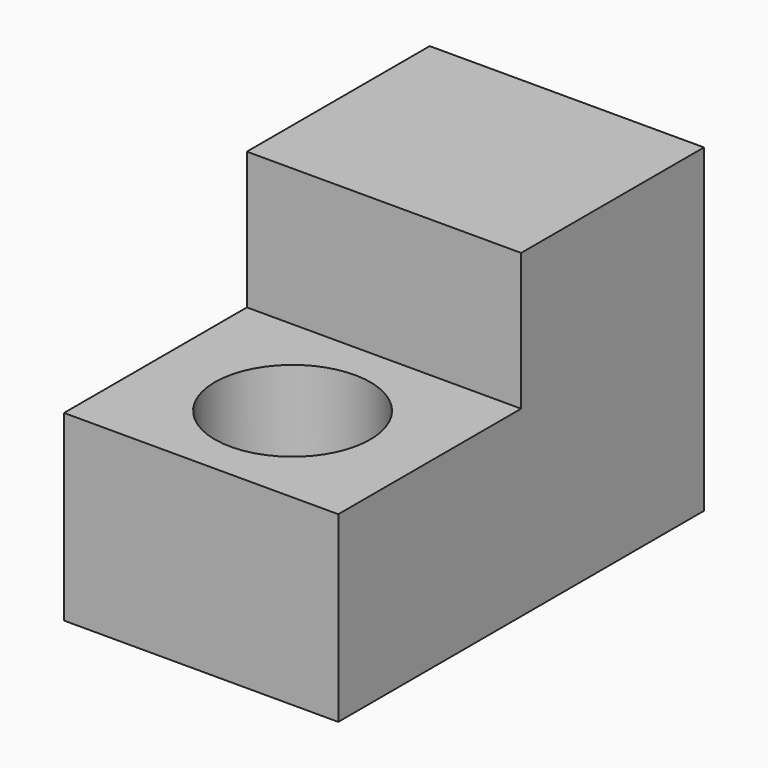
from build123d import *

# Parameters (mm, degrees)
F1_DEPTH = 30
F3_D     = 17


with BuildPart() as f1:
    # F0 (on Right) → F1 (new body)
    with BuildSketch(Plane.YZ):
        Polygon((46.7509815469, 15.6090386026), (46.7509815469, 50.6090386026), (21.7509815469, 50.6090386026), (21.7509815469, 35.6090386026), (-3.2490184531, 35.6090386026), (-3.2490184531, 15.6090386026), align=None)
    extrude(amount=F1_DEPTH)

    # F3 (through all)
    with Locations(Plane(origin=(0, 0, 0), x_dir=(1, 0, 0), z_dir=(0, 0, -1))):
        with Locations((15, -9.2509815469)):
            Hole(F3_D / 2)


solid = f1.part
